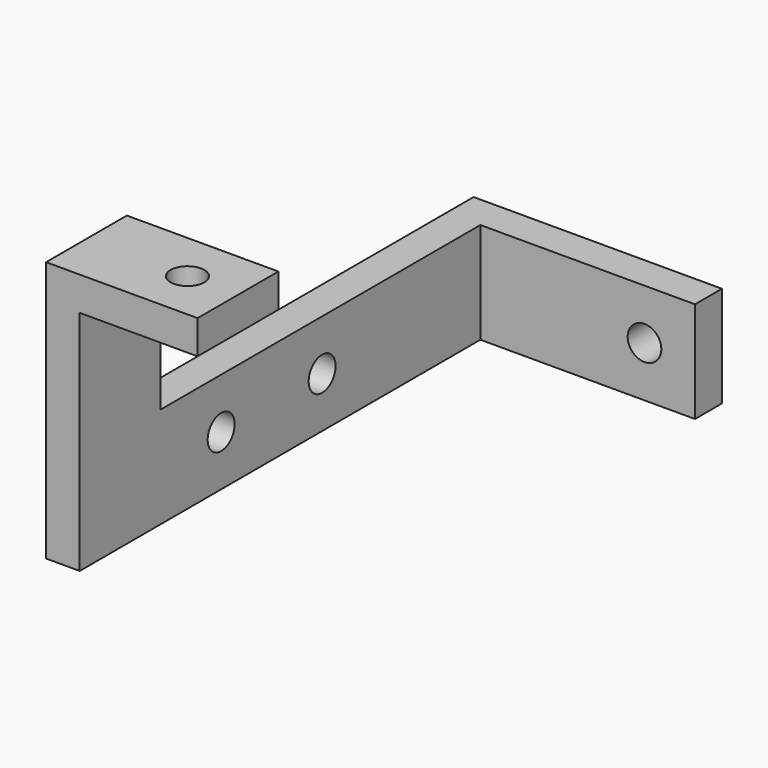
from build123d import *

# Parameters (mm, degrees)
F0_W      = 14.75
F0_H      = 6
F0_R      = 1
F1_DEPTH  = 2
F2_W      = 2
F2_H      = 6
F3_DEPTH  = 14.75
F4_R      = 1
F5_DEPTH  = 25
F6_W      = 2
F6_H      = 6
F7_DEPTH  = 15
F8_R      = 1
F9_DEPTH  = 25
F10_W     = 2
F10_H     = 6
F11_DEPTH = 9.5
F12_W     = 6
F12_H     = 2
F13_DEPTH = 7
F14_R     = 1
F15_DEPTH = 25


with BuildPart() as f1:
    # F0 (on Front) → F1 (new body)
    with BuildSketch(Plane.XZ):
        with Locations((7.375, 3)):
            Rectangle(F0_W, F0_H)
        with Locations((11.75, 3)):
            Circle(F0_R, mode=Mode.SUBTRACT)
    extrude(amount=F1_DEPTH)

    # F2 (on face) → F3 (join)
    with BuildSketch(Plane.XZ.offset(2)):
        with Locations((1, 3)):
            Rectangle(F2_W, F2_H)
    extrude(amount=F3_DEPTH)

    # F4 (on face) → F5 (cut)
    with BuildSketch(Plane.YZ.offset(2)):
        with Locations((-13.75, 3)):
            Circle(F4_R)
    extrude(amount=-F5_DEPTH, mode=Mode.SUBTRACT)

    # F6 (on face) → F7 (join)
    with BuildSketch(Plane.XZ.offset(16.75)):
        with Locations((1, 3)):
            Rectangle(F6_W, F6_H)
    extrude(amount=F7_DEPTH)

    # F8 (on face) → F9 (cut)
    with BuildSketch(Plane.YZ.offset(2)):
        with Locations((-21.25, 3)):
            Circle(F8_R)
    extrude(amount=-F9_DEPTH, mode=Mode.SUBTRACT)

    # F10 (on face) → F11 (join)
    with BuildSketch(Plane.XY.offset(6)):
        with Locations((1, -28.75)):
            Rectangle(F10_W, F10_H)
    extrude(amount=F11_DEPTH)

    # F12 (on face) → F13 (join)
    with BuildSketch(Plane.YZ.offset(2)):
        with Locations((-28.75, 14.5)):
            Rectangle(F12_W, F12_H)
    extrude(amount=F13_DEPTH)

    # F14 (on face) → F15 (cut)
    with BuildSketch(Plane.XY.offset(15.5)):
        with Locations((6, -28.75)):
            Circle(F14_R)
    extrude(amount=-F15_DEPTH, mode=Mode.SUBTRACT)


solid = f1.part
